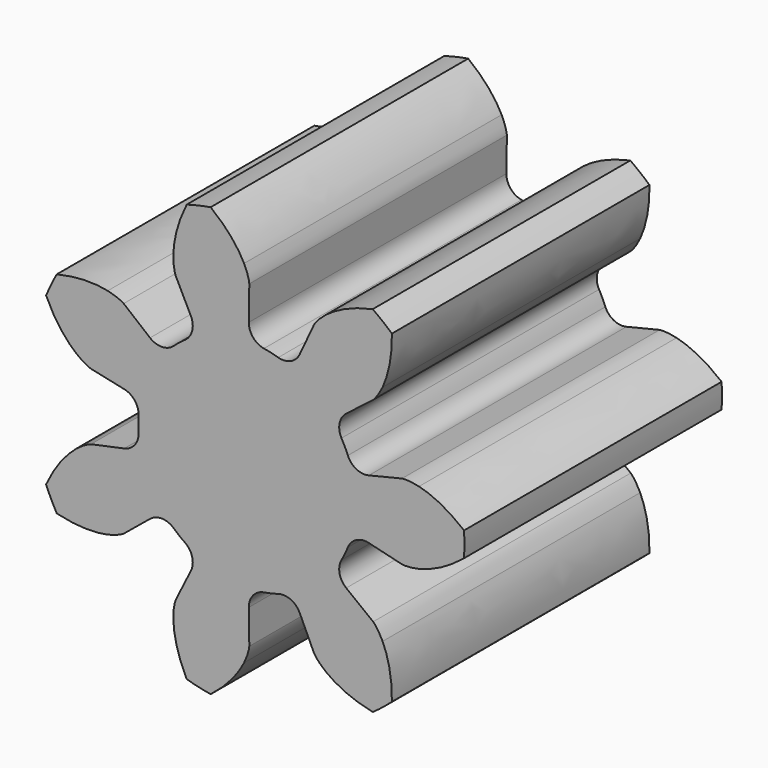
from build123d import *

# Parameters (mm, degrees)
PAD003_DEPTH = 10
SKETCH012_R  = 0.537359
POCKET_DEPTH = 10.001


with BuildPart() as obj1:
    # InvoluteGear001 → Pad003 (new body)
    with BuildSketch(Plane(origin=(-1, 0, -18.8), x_dir=(1, 0, 0), z_dir=(0, -1, 0))):
        with BuildLine():
            Line((3.786059, -0.923719), (4.81556, -1.173313))
            add(Edge.make_bspline(
                [(4.81556, -1.173313), (4.873385, -1.181675), (5.046346, -1.195856), (5.34323, -1.127243)],
                knots=[0, 0, 0, 0, 1, 1, 1, 1], degree=3))
            add(Edge.make_bspline(
                [(5.34323, -1.127243), (5.693315, -1.042189), (6.183331, -0.841463), (6.742255, -0.380782)],
                knots=[0, 0, 0, 0, 1, 1, 1, 1], degree=3))
            ThreePointArc((6.742255, -0.380782), (6.753004, 0), (6.742255, 0.380782))
            add(Edge.make_bspline(
                [(6.742255, 0.380782), (6.183331, 0.841463), (5.693315, 1.042189), (5.34323, 1.127243)],
                knots=[0, 0, 0, 0, 1, 1, 1, 1], degree=3))
            add(Edge.make_bspline(
                [(5.34323, 1.127243), (5.046346, 1.195856), (4.873385, 1.181675), (4.81556, 1.173313)],
                knots=[0, 0, 0, 0, 1, 1, 1, 1], degree=3))
            Line((4.81556, 1.173313), (3.786059, 0.923719))
            ThreePointArc((3.786059, 0.923719), (3.397937, 0.968687), (3.132738, 1.25562))
            ThreePointArc((3.132738, 1.25562), (3.04077, 1.464358), (2.934913, 1.666407))
            ThreePointArc((2.934913, 1.666407), (2.875929, 2.052647), (3.082762, 2.384131))
            Line((3.082762, 2.384131), (3.919786, 3.033407))
            add(Edge.make_bspline(
                [(3.919786, 3.033407), (3.962376, 3.073404), (4.081304, 3.199788), (4.212764, 3.474681)],
                knots=[0, 0, 0, 0, 1, 1, 1, 1], degree=3))
            add(Edge.make_bspline(
                [(4.212764, 3.474681), (4.364539, 3.801419), (4.513126, 4.309679), (4.501435, 5.033894)],
                knots=[0, 0, 0, 0, 1, 1, 1, 1], degree=3))
            ThreePointArc((4.501435, 5.033894), (4.210429, 5.279711), (3.90602, 5.508721))
            add(Edge.make_bspline(
                [(3.90602, 5.508721), (3.197362, 5.358966), (2.734908, 5.101007), (2.450135, 4.88033)],
                knots=[0, 0, 0, 0, 1, 1, 1, 1], degree=3))
            add(Edge.make_bspline(
                [(2.450135, 4.88033), (2.211387, 4.690996), (2.114635, 4.546928), (2.085119, 4.496505)],
                knots=[0, 0, 0, 0, 1, 1, 1, 1], degree=3))
            Line((2.085119, 4.496505), (1.638377, 3.53599))
            ThreePointArc((1.638377, 3.53599), (1.361229, 3.260581), (0.971547, 3.232139))
            ThreePointArc((0.971547, 3.232139), (0.751008, 3.290382), (0.527039, 3.333595))
            ThreePointArc((0.527039, 3.333595), (0.188288, 3.528297), (0.058082, 3.896681))
            Line((0.058082, 3.896681), (0.072333, 4.95591))
            add(Edge.make_bspline(
                [(0.072333, 4.95591), (0.067617, 5.014146), (0.042956, 5.185927), (-0.09, 5.460099)],
                knots=[0, 0, 0, 0, 1, 1, 1, 1], degree=3))
            add(Edge.make_bspline(
                [(-0.09, 5.460099), (-0.250823, 5.78248), (-0.555555, 6.215545), (-1.129058, 6.657945)],
                knots=[0, 0, 0, 0, 1, 1, 1, 1], degree=3))
            ThreePointArc((-1.129058, 6.657945), (-1.502685, 6.583692), (-1.871528, 6.488481))
            add(Edge.make_bspline(
                [(-1.871528, 6.488481), (-2.196286, 5.841059), (-2.28294, 5.318663), (-2.287961, 4.958429)],
                knots=[0, 0, 0, 0, 1, 1, 1, 1], degree=3))
            add(Edge.make_bspline(
                [(-2.287961, 4.958429), (-2.288791, 4.65372), (-2.236478, 4.488252), (-2.215459, 4.433737)],
                knots=[0, 0, 0, 0, 1, 1, 1, 1], degree=3))
            Line((-2.215459, 4.433737), (-1.743037, 3.485588))
            ThreePointArc((-1.743037, 3.485588), (-1.700512, 3.09719), (-1.921238, 2.774792))
            ThreePointArc((-1.921238, 2.774792), (-2.104278, 2.638681), (-2.277706, 2.490518))
            ThreePointArc((-2.277706, 2.490518), (-2.641138, 2.347067), (-3.010335, 2.474951))
            Line((-3.010335, 2.474951), (-3.829588, 3.146512))
            add(Edge.make_bspline(
                [(-3.829588, 3.146512), (-3.878059, 3.179135), (-4.027738, 3.266957), (-4.324991, 3.333952)],
                knots=[0, 0, 0, 0, 1, 1, 1, 1], degree=3))
            add(Edge.make_bspline(
                [(-4.324991, 3.333952), (-4.677311, 3.409216), (-5.205892, 3.440979), (-5.909347, 3.268428)],
                knots=[0, 0, 0, 0, 1, 1, 1, 1], degree=3))
            ThreePointArc((-5.909347, 3.268428), (-6.084247, 2.930019), (-6.239777, 2.582282))
            add(Edge.make_bspline(
                [(-6.239777, 2.582282), (-5.936086, 1.924715), (-5.581688, 1.531257), (-5.303176, 1.30273)],
                knots=[0, 0, 0, 0, 1, 1, 1, 1], degree=3))
            add(Edge.make_bspline(
                [(-5.303176, 1.30273), (-5.065463, 1.112098), (-4.903478, 1.04983), (-4.847751, 1.032274)],
                knots=[0, 0, 0, 0, 1, 1, 1, 1], degree=3))
            Line((-4.847751, 1.032274), (-3.811908, 0.810467))
            ThreePointArc((-3.811908, 0.810467), (-3.481733, 0.601552), (-3.367292, 0.22797))
            ThreePointArc((-3.367292, 0.22797), (-3.375, 0), (-3.367292, -0.22797))
            ThreePointArc((-3.367292, -0.22797), (-3.481733, -0.601552), (-3.811908, -0.810467))
            Line((-3.811908, -0.810467), (-4.847751, -1.032274))
            add(Edge.make_bspline(
                [(-4.847751, -1.032274), (-4.903478, -1.04983), (-5.065463, -1.112098), (-5.303176, -1.30273)],
                knots=[0, 0, 0, 0, 1, 1, 1, 1], degree=3))
            add(Edge.make_bspline(
                [(-5.303176, -1.30273), (-5.581688, -1.531257), (-5.936086, -1.924715), (-6.239777, -2.582282)],
                knots=[0, 0, 0, 0, 1, 1, 1, 1], degree=3))
            ThreePointArc((-6.239777, -2.582282), (-6.084247, -2.930019), (-5.909347, -3.268428))
            add(Edge.make_bspline(
                [(-5.909347, -3.268428), (-5.205892, -3.440979), (-4.677311, -3.409216), (-4.324991, -3.333952)],
                knots=[0, 0, 0, 0, 1, 1, 1, 1], degree=3))
            add(Edge.make_bspline(
                [(-4.324991, -3.333952), (-4.027738, -3.266957), (-3.878059, -3.179135), (-3.829588, -3.146512)],
                knots=[0, 0, 0, 0, 1, 1, 1, 1], degree=3))
            Line((-3.829588, -3.146512), (-3.010335, -2.474951))
            ThreePointArc((-3.010335, -2.474951), (-2.641138, -2.347067), (-2.277706, -2.490518))
            ThreePointArc((-2.277706, -2.490518), (-2.104278, -2.638681), (-1.921238, -2.774792))
            ThreePointArc((-1.921238, -2.774792), (-1.700512, -3.09719), (-1.743037, -3.485588))
            Line((-1.743037, -3.485588), (-2.215459, -4.433737))
            add(Edge.make_bspline(
                [(-2.215459, -4.433737), (-2.236478, -4.488252), (-2.288791, -4.65372), (-2.287961, -4.958429)],
                knots=[0, 0, 0, 0, 1, 1, 1, 1], degree=3))
            add(Edge.make_bspline(
                [(-2.287961, -4.958429), (-2.28294, -5.318663), (-2.196286, -5.841059), (-1.871528, -6.488481)],
                knots=[0, 0, 0, 0, 1, 1, 1, 1], degree=3))
            ThreePointArc((-1.871528, -6.488481), (-1.502685, -6.583692), (-1.129058, -6.657945))
            add(Edge.make_bspline(
                [(-1.129058, -6.657945), (-0.555555, -6.215545), (-0.250823, -5.78248), (-0.09, -5.460099)],
                knots=[0, 0, 0, 0, 1, 1, 1, 1], degree=3))
            add(Edge.make_bspline(
                [(-0.09, -5.460099), (0.042956, -5.185927), (0.067617, -5.014146), (0.072333, -4.95591)],
                knots=[0, 0, 0, 0, 1, 1, 1, 1], degree=3))
            Line((0.072333, -4.95591), (0.058082, -3.896681))
            ThreePointArc((0.058082, -3.896681), (0.188288, -3.528297), (0.527039, -3.333595))
            ThreePointArc((0.527039, -3.333595), (0.751008, -3.290382), (0.971547, -3.232139))
            ThreePointArc((0.971547, -3.232139), (1.361229, -3.260581), (1.638377, -3.53599))
            Line((1.638377, -3.53599), (2.085119, -4.496505))
            add(Edge.make_bspline(
                [(2.085119, -4.496505), (2.114635, -4.546928), (2.211387, -4.690996), (2.450135, -4.88033)],
                knots=[0, 0, 0, 0, 1, 1, 1, 1], degree=3))
            add(Edge.make_bspline(
                [(2.450135, -4.88033), (2.734908, -5.101007), (3.197362, -5.358966), (3.90602, -5.508721)],
                knots=[0, 0, 0, 0, 1, 1, 1, 1], degree=3))
            ThreePointArc((3.90602, -5.508721), (4.210429, -5.279711), (4.501435, -5.033894))
            add(Edge.make_bspline(
                [(4.501435, -5.033894), (4.513126, -4.309679), (4.364539, -3.801419), (4.212764, -3.474681)],
                knots=[0, 0, 0, 0, 1, 1, 1, 1], degree=3))
            add(Edge.make_bspline(
                [(4.212764, -3.474681), (4.081304, -3.199788), (3.962376, -3.073404), (3.919786, -3.033407)],
                knots=[0, 0, 0, 0, 1, 1, 1, 1], degree=3))
            Line((3.919786, -3.033407), (3.082762, -2.384131))
            ThreePointArc((3.082762, -2.384131), (2.875929, -2.052647), (2.934913, -1.666407))
            ThreePointArc((2.934913, -1.666407), (3.04077, -1.464358), (3.132738, -1.25562))
            ThreePointArc((3.132738, -1.25562), (3.397937, -0.968687), (3.786059, -0.923719))
        make_face()
    extrude(amount=PAD003_DEPTH)


with BuildPart() as obj1_con_buco:
    # Pocket base: copy of obj1
    add(obj1.part)

    # Sketch012 → Pocket (cut, through all)
    with BuildSketch(Plane(origin=(-1, -10, -18.8), x_dir=(1, 0, 0), z_dir=(0, -1, 0))):
        Circle(SKETCH012_R)
    extrude(amount=-POCKET_DEPTH, mode=Mode.SUBTRACT)

    # Fusion004: union obj1
    add(obj1.part)


with BuildPart() as obj1_con_buco_1:
    # Fusion004 placement: moved
    add(obj1_con_buco.part.moved(Location((-7, -12, 3.8))))


solid = obj1_con_buco_1.part
